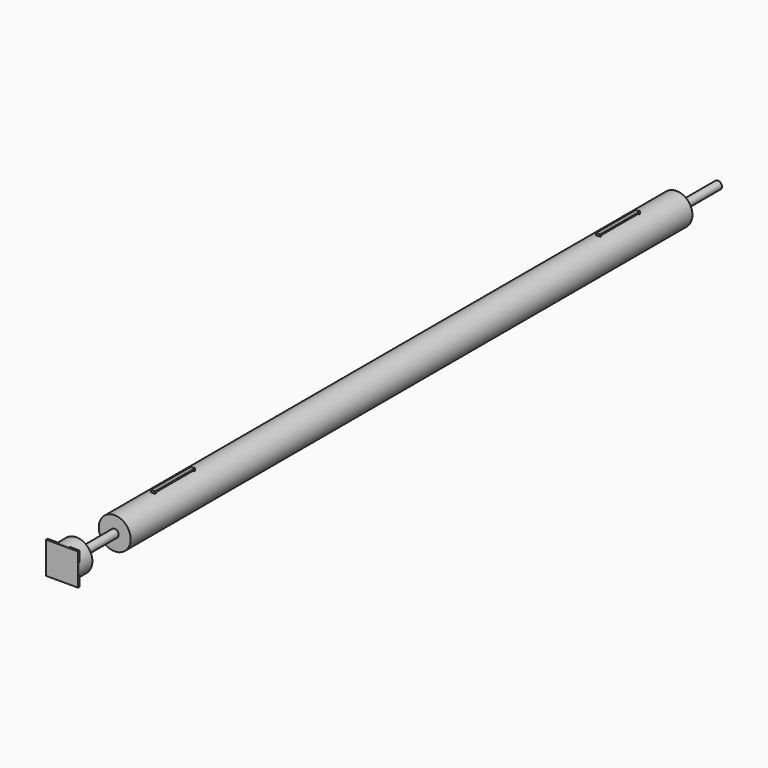
from build123d import *

# Parameters (mm, degrees)
F0_R      = 25.4
F1_DEPTH  = 1117.6
F2_R      = 6.35
F3_DEPTH  = 50.8
F4_R      = 6.35
F5_DEPTH  = 50.8
F6_DEPTH  = 76.2
F7_R      = 25.4
F7_R_2    = 6.35
F8_DEPTH  = 25.4
F9_DEPTH  = 82.55
F10_R     = 6.35
F11_DEPTH = 3.175
F13_DEPTH = 3.175
F13_TAPER = -3


with BuildPart() as f1:
    # F0 (on Front) → F1 (new body)
    with BuildSketch(Plane.XZ):
        Circle(F0_R)
    extrude(amount=F1_DEPTH)

    # F2 (on face) → F3 (cut)
    with BuildSketch(Plane(origin=(0, 0, 0), x_dir=(-1, 0, 0), z_dir=(0, 1, 0))):
        Circle(F2_R)
    extrude(amount=-F3_DEPTH, mode=Mode.SUBTRACT)

    # F4 (on face) → F5 (cut)
    with BuildSketch(Plane.XZ.offset(1117.6)):
        Circle(F4_R)
    extrude(amount=-F5_DEPTH, mode=Mode.SUBTRACT)

    # F12 (on Right) → F13 (join, symmetric)
    with BuildSketch(Plane.YZ):
        Polygon((-77.7875, 25.4), (-76.2, 25.4), (-76.2, 28.575), (-155.575, 28.575), (-155.575, 25.4), (-153.9875, 25.4), (-153.9875, 26.9875), (-77.7875, 26.9875), align=None)
        Polygon((-1041.4, 28.575), (-1041.4, 25.4), (-1039.8125, 25.4), (-1039.8125, 26.9875), (-963.6125, 26.9875), (-963.6125, 25.4), (-962.025, 25.4), (-962.025, 28.575), align=None)
    extrude(amount=F13_DEPTH, both=True, taper=F13_TAPER)


with BuildPart() as f6:
    # F4 (on face) → F6 (new body)
    with BuildSketch(Plane.XZ.offset(1117.6)):
        Circle(F4_R)
    extrude(amount=F6_DEPTH)


with BuildPart() as f8:
    # F7 (on face) → F8 (new body)
    with BuildSketch(Plane.XZ.offset(1193.8)):
        Circle(F7_R)
        Circle(F7_R_2, mode=Mode.SUBTRACT)
    extrude(amount=F8_DEPTH)


with BuildPart() as f9:
    # F2 (on face) → F9 (new body)
    with BuildSketch(Plane(origin=(0, 0, 0), x_dir=(-1, 0, 0), z_dir=(0, 1, 0))):
        Circle(F2_R)
    extrude(amount=F9_DEPTH)


with BuildPart() as f11:
    # F10 (on face) → F11 (new body)
    with BuildSketch(Plane.XZ.offset(1219.2)):
        with BuildLine():
            Line((4.89e-08, 25.4), (-25.4, 25.4))
            Line((-25.4, 25.4), (-25.4, 3.44e-08))
            ThreePointArc((-25.4, 3.44e-08), (-17.9605122127, 17.9605122716), (4.89e-08, 25.4))
        make_face()
        with BuildLine():
            Line((25.4, 25.4), (4.89e-08, 25.4))
            ThreePointArc((4.89e-08, 25.4), (17.9605122594, 17.9605122249), (25.4, 0))
            Line((25.4, 0), (25.4, 25.4))
        make_face()
        with BuildLine():
            ThreePointArc((25.4, 0), (17.9605122594, 17.9605122249), (4.89e-08, 25.4))
            ThreePointArc((4.89e-08, 25.4), (-17.9605122127, 17.9605122716), (-25.4, 3.44e-08))
            ThreePointArc((-25.4, 3.44e-08), (-17.9605122437, -17.9605122406), (3.01e-08, -25.4))
            ThreePointArc((3.01e-08, -25.4), (17.9605122528, -17.9605122315), (25.4, 0))
        make_face()
        Circle(F10_R, mode=Mode.SUBTRACT)
        Circle(F10_R)
        with BuildLine():
            ThreePointArc((3.01e-08, -25.4), (-17.9605122437, -17.9605122406), (-25.4, 3.44e-08))
            Line((-25.4, 3.44e-08), (-25.4, -25.4))
            Line((-25.4, -25.4), (3.01e-08, -25.4))
        make_face()
        with BuildLine():
            Line((25.4, -25.4), (25.4, 0))
            ThreePointArc((25.4, 0), (17.9605122528, -17.9605122315), (3.01e-08, -25.4))
            Line((3.01e-08, -25.4), (25.4, -25.4))
        make_face()
    extrude(amount=F11_DEPTH)


solid = Compound([f1.part, f6.part, f8.part, f9.part, f11.part])
